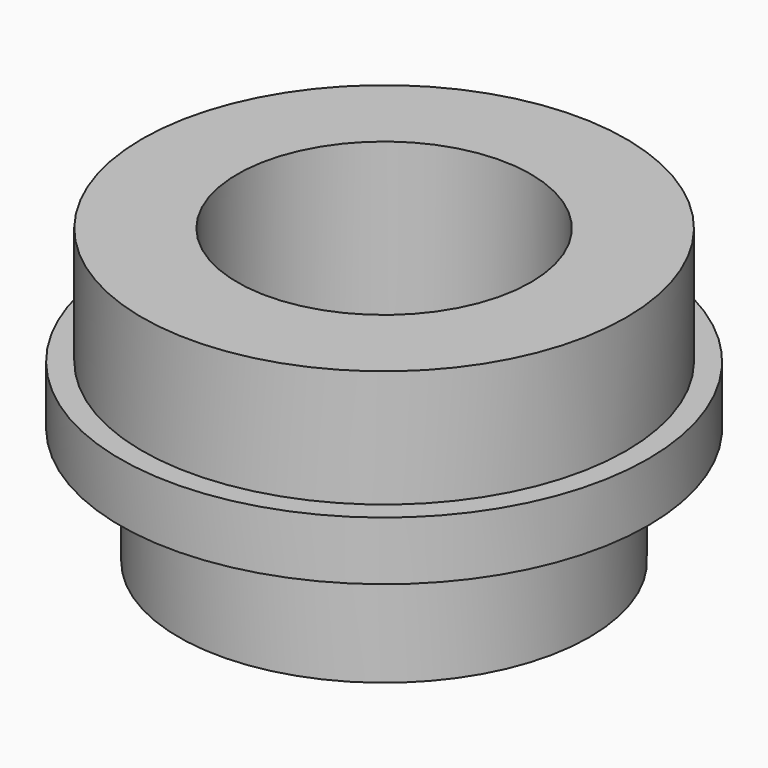
from build123d import *

# Parameters (mm, degrees)
F0_R     = 457.2
F0_R_2   = 254
F1_DEPTH = 508
F2_R     = 457.2
F2_R_2   = 419.1
F3_DEPTH = 203.2
F4_R     = 457.2
F4_R_2   = 355.6
F5_DEPTH = 203.2


with BuildPart() as f1:
    # F0 (on Top) → F1 (new body)
    with BuildSketch(Plane.XY):
        Circle(F0_R)
        Circle(F0_R_2, mode=Mode.SUBTRACT)
    extrude(amount=F1_DEPTH)

    # F2 (on face) → F3 (cut)
    with BuildSketch(Plane.XY.offset(508)):
        Circle(F2_R)
        Circle(F2_R_2, mode=Mode.SUBTRACT)
    extrude(amount=-F3_DEPTH, mode=Mode.SUBTRACT)

    # F4 (on face) → F5 (cut)
    with BuildSketch(Plane.XY):
        Circle(F4_R)
        Circle(F4_R_2, mode=Mode.SUBTRACT)
    extrude(amount=F5_DEPTH, mode=Mode.SUBTRACT)


solid = f1.part
